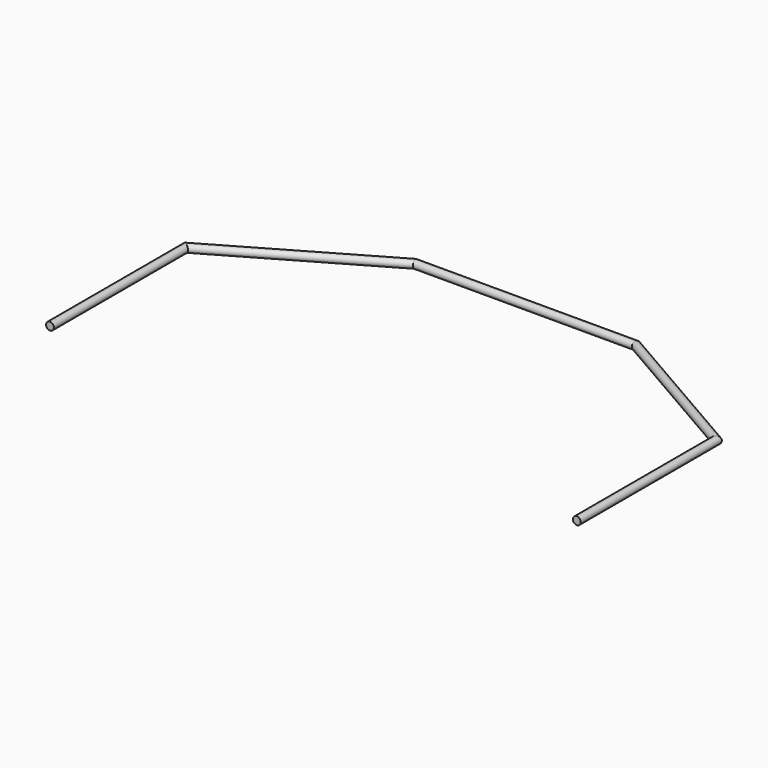
from build123d import *

# Parameters (mm, degrees)
F1_R = 0.6515882549


with BuildPart() as f2:
    # F2: sweep along a path in F0
    with BuildLine(Plane.XY) as f2_path:
        Line((0, 0), (0, 28.2141789794))
        Line((0, 28.2141789794), (26.0536126347, 43.2562392474))
        Line((26.0536126347, 43.2562392474), (62.7735159846, 43.2562392474))
        Line((62.7735159846, 43.2562392474), (87.544889414, 28.9544801298))
        Line((87.544889414, 28.9544801298), (87.544889414, 0))
    # F1 (on Front) → F2 (sweep)
    with BuildSketch(Plane.XZ):
        Circle(F1_R)
    sweep(path=f2_path.line, transition=Transition.RIGHT)


solid = f2.part
